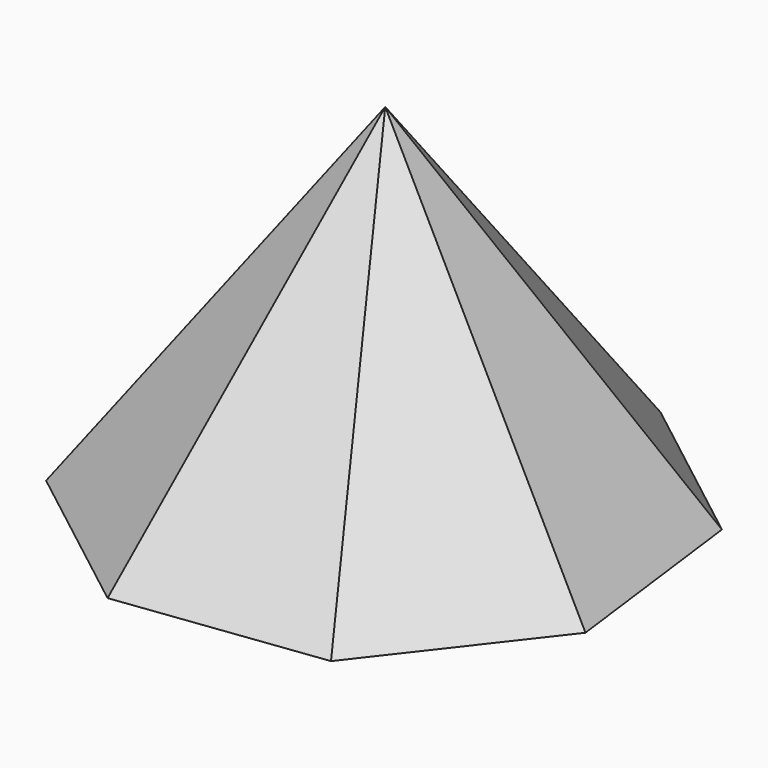
from build123d import *


with BuildPart() as f3:
    # F0 (on Top) → F3 section 0
    with BuildSketch(Plane.XY, mode=Mode.PRIVATE) as f3_s0:
        Polygon((20.656764, 73.207314), (-37.295084, 65.84017), (-73.063872, 19.652667), (-65.696728, -38.299182), (-19.509226, -74.067969), (38.442623, -66.700826), (74.211411, -20.513323), (66.844267, 37.438526), align=None)
    loft([Vertex(0.573766, 0.007616, 100), f3_s0.sketch])


solid = f3.part
